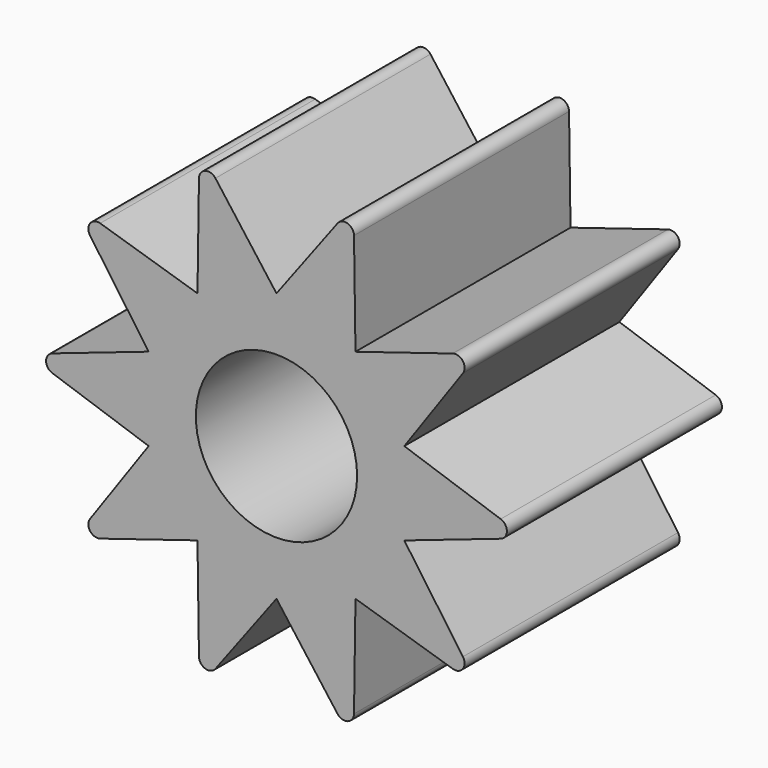
from build123d import *

# Parameters (mm, degrees)
F0_R     = 2.1
F1_DEPTH = 7


with BuildPart() as f1:
    # F0 (on Front) → F1 (new body)
    with BuildSketch(Plane.XZ):
        with BuildLine():
            Line((3.328698, -1.081559), (5.838605, -0.225566))
            ThreePointArc((5.838605, -0.225566), (6, 0), (5.838605, 0.225566))
            Line((5.838605, 0.225566), (3.328698, 1.081559))
            Line((3.328698, 1.081559), (4.856115, 3.249359))
            ThreePointArc((4.856115, 3.249359), (4.854102, 3.526712), (4.590946, 3.614333))
            Line((4.590946, 3.614333), (2.057248, 2.831559))
            Line((2.057248, 2.831559), (2.018754, 5.48314))
            ThreePointArc((2.018754, 5.48314), (1.854102, 5.706339), (1.589702, 5.622547))
            Line((1.589702, 5.622547), (0, 3.5))
            Line((0, 3.5), (-1.589702, 5.622547))
            ThreePointArc((-1.589702, 5.622547), (-1.854102, 5.706339), (-2.018754, 5.48314))
            Line((-2.018754, 5.48314), (-2.057248, 2.831559))
            Line((-2.057248, 2.831559), (-4.590946, 3.614333))
            ThreePointArc((-4.590946, 3.614333), (-4.854102, 3.526712), (-4.856115, 3.249359))
            Line((-4.856115, 3.249359), (-3.328698, 1.081559))
            Line((-3.328698, 1.081559), (-5.838605, 0.225566))
            ThreePointArc((-5.838605, 0.225566), (-6, 0), (-5.838605, -0.225566))
            Line((-5.838605, -0.225566), (-3.328698, -1.081559))
            Line((-3.328698, -1.081559), (-4.856115, -3.249359))
            ThreePointArc((-4.856115, -3.249359), (-4.854102, -3.526712), (-4.590946, -3.614333))
            Line((-4.590946, -3.614333), (-2.057248, -2.831559))
            Line((-2.057248, -2.831559), (-2.018754, -5.48314))
            ThreePointArc((-2.018754, -5.48314), (-1.854102, -5.706339), (-1.589702, -5.622547))
            Line((-1.589702, -5.622547), (0, -3.5))
            Line((0, -3.5), (1.589702, -5.622547))
            ThreePointArc((1.589702, -5.622547), (1.854102, -5.706339), (2.018754, -5.48314))
            Line((2.018754, -5.48314), (2.057248, -2.831559))
            Line((2.057248, -2.831559), (4.590946, -3.614333))
            ThreePointArc((4.590946, -3.614333), (4.854102, -3.526712), (4.856115, -3.249359))
            Line((4.856115, -3.249359), (3.328698, -1.081559))
        make_face()
        Circle(F0_R, mode=Mode.SUBTRACT)
    extrude(amount=F1_DEPTH)


solid = f1.part
